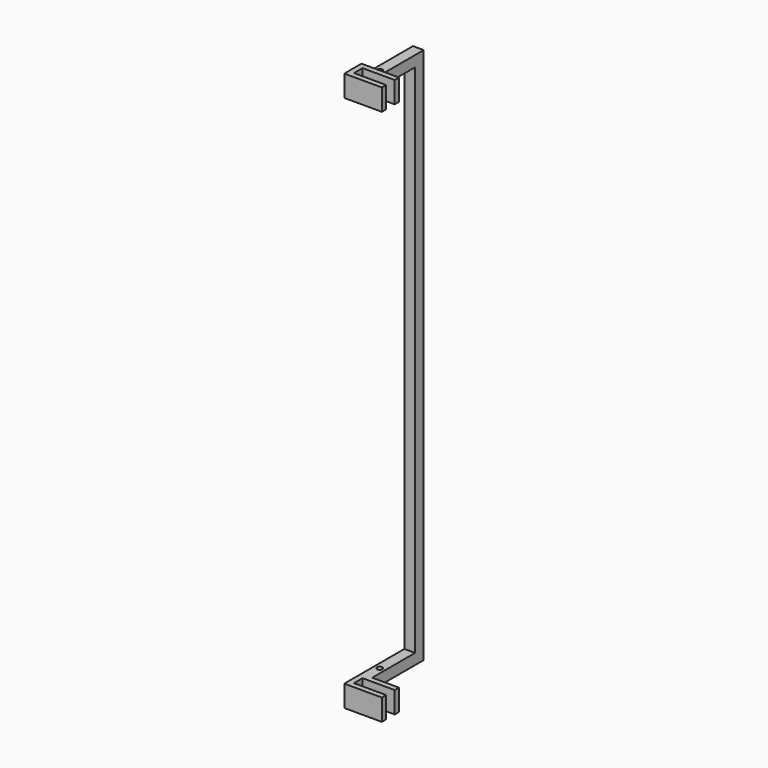
from build123d import *

# Parameters (mm, degrees)
F0_W      = 25.4
F0_H      = 50.8
F0_H_2    = 25.4
F0_W_2    = 152.4
F1_DEPTH  = 101.6
F2_W      = 50.8
F2_H      = 50.8
F3_DEPTH  = 304.8
F4_W      = 50.8
F4_H      = 50.8
F5_DEPTH  = 2489.2
F6_W      = 50.8
F6_H      = 50.8
F7_DEPTH  = 254
F8_W      = 152.4867629528
F8_H      = 25.4
F9_DEPTH  = 101.6
F11_D     = 25.4
F11_DEPTH = 2540
F11_TIP   = 7.6309298617


with BuildPart() as f1:
    # F0 (on Top) → F1 (new body)
    with BuildSketch(Plane.XY):
        with Locations((-86.6702721953, 35.7780026045)):
            Rectangle(F0_W, F0_H)
        with Locations((-86.6702721953, -2.3219973955)):
            Rectangle(F0_W, F0_H_2)
        with Locations((2.2297278047, -2.3219973955)):
            Rectangle(F0_W_2, F0_H_2)
        with Locations((-86.6702721953, 73.8780026045)):
            Rectangle(F0_W, F0_H_2)
        with Locations((2.2297278047, 73.8780026045)):
            Rectangle(F0_W_2, F0_H_2)
    extrude(amount=F1_DEPTH)

    # F2 (on face) → F3 (join)
    with BuildSketch(Plane(origin=(0, 86.5780026045, 0), x_dir=(-1, 0, 0), z_dir=(0, 1, 0))):
        with Locations((73.9702721953, 76.2)):
            Rectangle(F2_W, F2_H)
    extrude(amount=F3_DEPTH)

    # F4 (on face) → F5 (join)
    with BuildSketch(Plane.XY.offset(101.6)):
        with Locations((-73.9702721953, 365.9780026045)):
            Rectangle(F4_W, F4_H)
    extrude(amount=F5_DEPTH)

    # F6 (on face) → F7 (join)
    with BuildSketch(Plane.XZ.offset(-340.5780026045)):
        with Locations((-73.9702721953, 2565.4)):
            Rectangle(F6_W, F6_H)
    extrude(amount=F7_DEPTH)

    # F8 (on face) → F9 (join)
    with BuildSketch(Plane(origin=(0, 0, 2540), x_dir=(1, 0, 0), z_dir=(0, 0, -1))):
        Polygon((-99.3702721953, -61.1780026045), (-99.3702721953, -86.5780026045), (78.4297278047, -86.5780026045), (78.4297278047, -61.1780026045), (-73.9702721953, -61.1780026045), align=None)
        Polygon((-99.3702721953, 15.0219973955), (-99.3702721953, -61.1780026045), (-73.9702721953, -61.1780026045), (-73.9702721953, -10.3780026045), (-73.9702721953, 15.0219973955), align=None)
        with Locations((2.2731092811, 2.3219973955)):
            Rectangle(F8_W, F8_H)
    extrude(amount=-F9_DEPTH)

    # F11
    with Locations(Plane.XY.offset(2590.8)):
        with Locations((-73.9702721953, 162.7780026045)):
            Hole(F11_D / 2, depth=F11_DEPTH)
            with Locations((0, 0, -(F11_DEPTH + F11_TIP / 2))):  # 118° drill point
                Cone(0, F11_D / 2, F11_TIP, mode=Mode.SUBTRACT)


solid = f1.part
